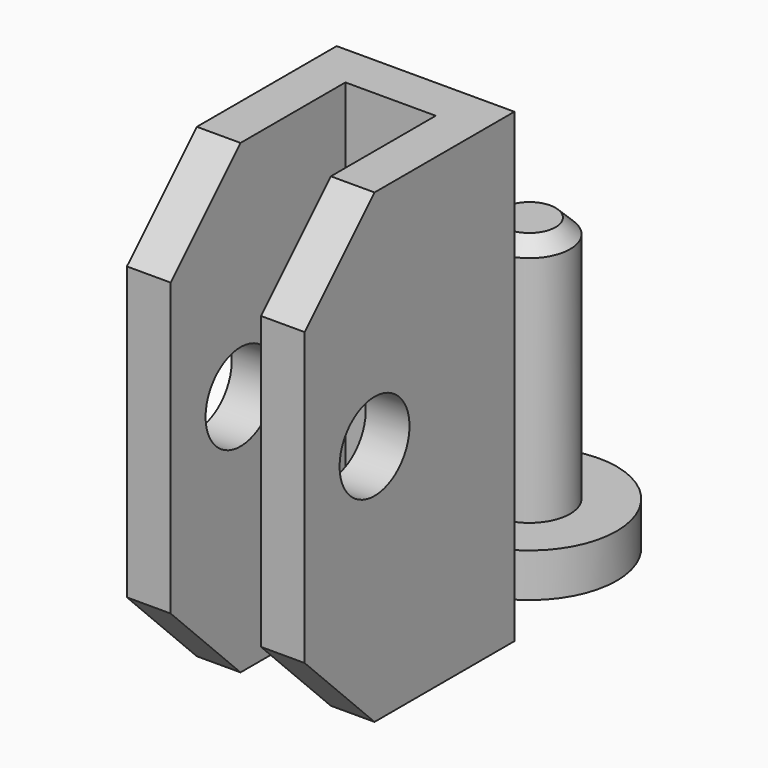
from build123d import *

# Parameters (mm, degrees)
F0_R     = 6
F0_R_2   = 2.8
F1_DEPTH = 3
F2_DEPTH = 20
F3_SIZE  = 1
F0_W     = 6.2
F0_H     = 3
F4_DEPTH = 32
F5_R     = 3
F6_DEPTH = 25
F7_SIZE  = 6


with BuildPart() as f1:
    # F0 (on Top) → F1 (new body)
    with BuildSketch(Plane.XY):
        Circle(F0_R)
        Circle(F0_R_2, mode=Mode.SUBTRACT)
    extrude(amount=F1_DEPTH)

    # F0 (on Top) → F2 (join)
    with BuildSketch(Plane.XY):
        Circle(F0_R_2)
    extrude(amount=F2_DEPTH)

    # F3
    f3_edges = [f1.edges().sort_by_distance(p)[0] for p in [
        (-2.8, 0, 20),
    ]]
    chamfer(f3_edges, length=F3_SIZE)


with BuildPart() as f4:
    # F0 (on Top) → F4 (new body)
    with BuildSketch(Plane.XY):
        Polygon((3.1, -8.9108899832), (3.1, -11.9108899832), (3.1, -26.9108899832), (6.1, -26.9108899832), (6.1, -8.9108899832), align=None)
        with Locations((0, -10.4108899832)):
            Rectangle(F0_W, F0_H)
        Polygon((-3.1, -26.9108899832), (-3.1, -11.9108899832), (-3.1, -8.9108899832), (-6.1, -8.9108899832), (-6.1, -26.9108899832), align=None)
    extrude(amount=F4_DEPTH)

    # F5 (on face) → F6 (cut)
    with BuildSketch(Plane(origin=(-6.1, 0, 0), x_dir=(0, -1, 0), z_dir=(-1, 0, 0))):
        with Locations((20.9108899832, 16.6593194008)):
            Circle(F5_R)
    extrude(amount=-F6_DEPTH, mode=Mode.SUBTRACT)

    # F7
    f7_edges = [f4.edges().sort_by_distance(p)[0] for p in [
        (-4.6, -26.91089, 32),
        (4.6, -26.91089, 32),
        (-4.6, -26.91089, 0),
        (4.6, -26.91089, 0),
    ]]
    chamfer(f7_edges, length=F7_SIZE)


solid = Compound([f1.part, f4.part])
